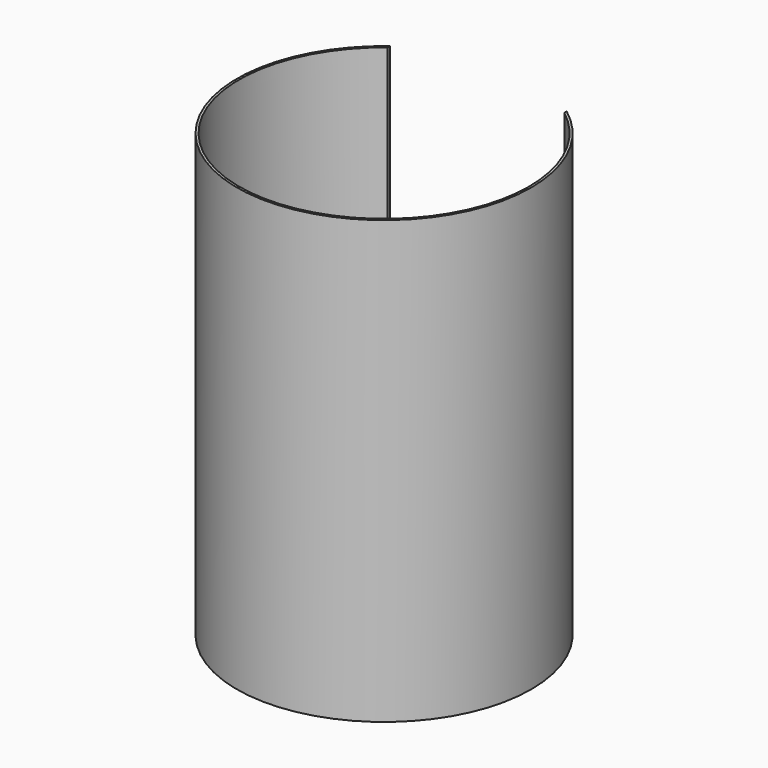
from build123d import *

# Parameters (mm, degrees)
F0_R     = 25
F1_DEPTH = 75
F2_T     = -0.4
F3_W     = 30
F3_H     = 26
F4_DEPTH = 25.001


with BuildPart() as f1:
    # F0 (on Top) → F1 (new body)
    with BuildSketch(Plane.XY):
        Circle(F0_R)
    extrude(amount=F1_DEPTH)

    # F2
    f2_openings = [f1.faces().sort_by_distance(p)[0] for p in [
        (0, 0, 75),
    ]]
    offset(amount=F2_T, openings=f2_openings)

    # F3 (on Front) → F4 (cut, through all)
    with BuildSketch(Plane.XZ):
        with Locations((0, 62)):
            Rectangle(F3_W, F3_H)
    extrude(amount=-F4_DEPTH, mode=Mode.SUBTRACT)


solid = f1.part
